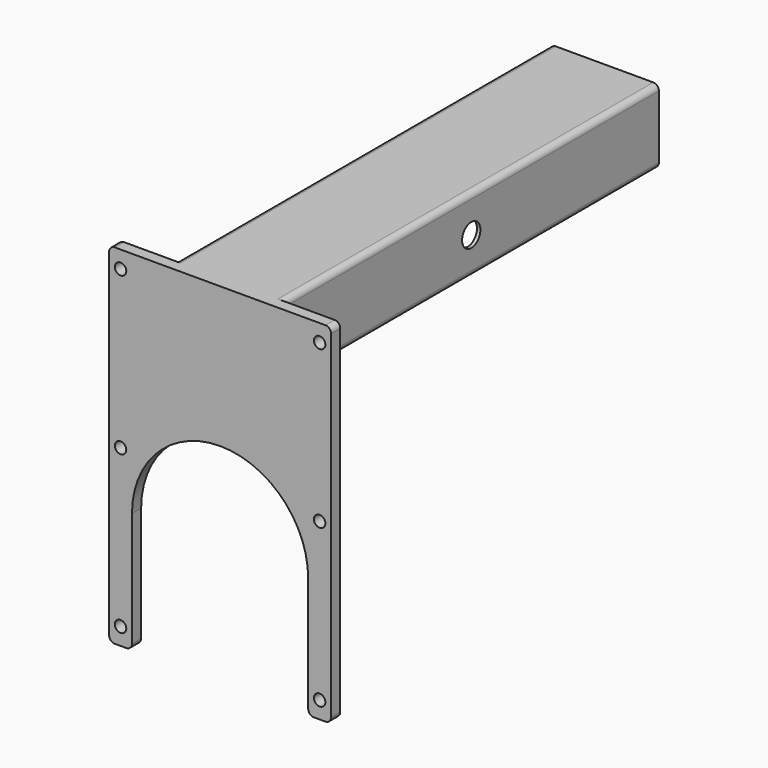
from build123d import *

# Parameters (mm, degrees)
F1_DEPTH = 10
F3_DEPTH = 410
F4_R     = 5
F5_R     = 5
F6_R     = 5
F7_DEPTH = 10.001
F8_R     = 10
F9_DEPTH = 144.501


with BuildPart() as f1:
    # F0 (on Front) → F1 (new body)
    with BuildSketch(Plane.XZ):
        with BuildLine():
            Line((-79.8040040345, -122.1982348855), (-79.8040040345, -17.0901585641))
            ThreePointArc((-79.8040040345, -17.0901585641), (-2.8040040345, 59.9098414359), (74.1959959655, -17.0901585641))
            Line((74.1959959655, -17.0901585641), (74.1959959655, -122.1982348855))
            Line((74.1959959655, -122.1982348855), (94.1959959655, -122.1982348855))
            Line((94.1959959655, -122.1982348855), (94.1959959655, 182.8017651145))
            Line((94.1959959655, 182.8017651145), (-99.8040040345, 182.8017651145))
            Line((-99.8040040345, 182.8017651145), (-99.8040040345, -122.1982348855))
            Line((-99.8040040345, -122.1982348855), (-79.8040040345, -122.1982348855))
        make_face()
    extrude(amount=F1_DEPTH)

    # F2 (on face) → F3 (join)
    with BuildSketch(Plane(origin=(0, 0, 0), x_dir=(-1, 0, 0), z_dir=(0, 1, 0))):
        Polygon((50.3040040345, 117.8017651145), (50.3040040345, 182.8017651145), (-44.6959959655, 182.8017651145), (-44.6959959655, 117.8017651145), (-19.6959959655, 117.8017651145), (-19.6959959655, 120.8017651145), (-41.6959959655, 120.8017651145), (-41.6959959655, 179.8017651145), (47.3040040345, 179.8017651145), (47.3040040345, 120.8017651145), (25.3040040345, 120.8017651145), (25.3040040345, 117.8017651145), align=None)
    extrude(amount=F3_DEPTH)

    # F4
    f4_edges = [f1.edges().sort_by_distance(p)[0] for p in [
        (44.695996, 205, 182.801765),
        (-50.304004, 205, 182.801765),
        (-50.304004, 205, 117.801765),
        (44.695996, 205, 117.801765),
        (-47.304004, 205, 179.801765),
        (-47.304004, 205, 120.801765),
        (41.695996, 205, 120.801765),
        (41.695996, 205, 179.801765),
    ]]
    fillet(f4_edges, radius=F4_R)

    # F5
    f5_edges = [f1.edges().sort_by_distance(p)[0] for p in [
        (-99.804004, -5, -122.198235),
        (-99.804004, -5, 182.801765),
        (94.195996, -5, 182.801765),
        (94.195996, -5, -122.198235),
        (74.195996, -5, -122.198235),
        (-79.804004, -5, -122.198235),
    ]]
    fillet(f5_edges, radius=F5_R)

    # F6 (on face) → F7 (cut, through all)
    with BuildSketch(Plane(origin=(0, 0, 0), x_dir=(-1, 0, 0), z_dir=(0, 1, 0))):
        with Locations((-84.1959959655, 167.8017651145)):
            Circle(F6_R)
        with Locations((-84.1959959655, 30.3017651145)):
            Circle(F6_R)
        with Locations((-84.1959959655, -107.1982348855)):
            Circle(F6_R)
        with Locations((89.8040040345, 167.8017651145)):
            Circle(F6_R)
        with Locations((89.8040040345, 30.3017651145)):
            Circle(F6_R)
        with Locations((89.8040040345, -107.1982348855)):
            Circle(F6_R)
    extrude(amount=-F7_DEPTH, mode=Mode.SUBTRACT)

    # F8 (on face) → F9 (cut, through all)
    with BuildSketch(Plane.YZ.offset(44.6959959655)):
        with Locations((205, 150.3017651145)):
            Circle(F8_R)
    extrude(amount=-F9_DEPTH, mode=Mode.SUBTRACT)


solid = f1.part
